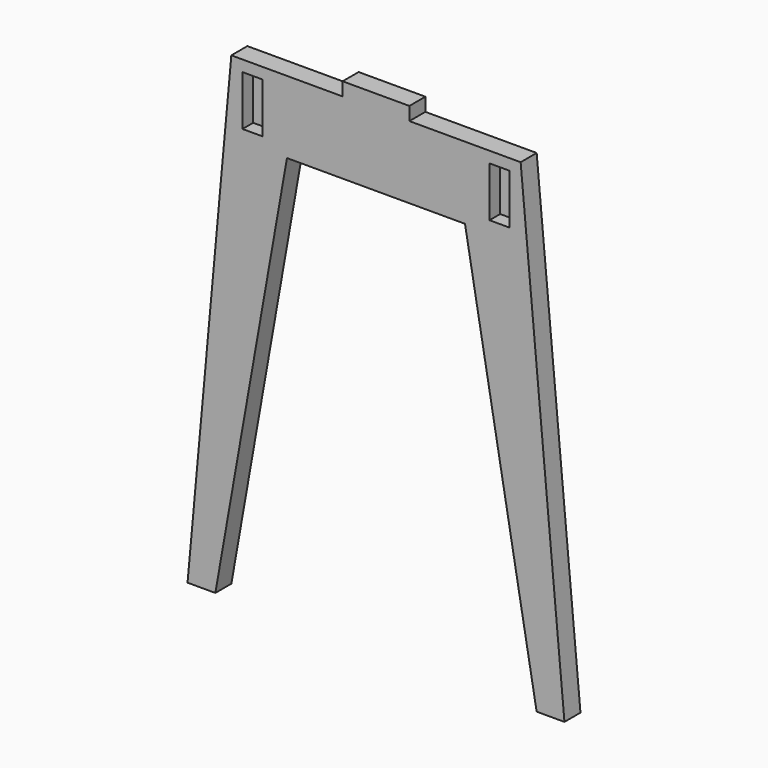
from build123d import *

# Parameters (mm, degrees)
PAD_DEPTH    = 18
SKETCH001_W  = 18
SKETCH001_H  = 45
POCKET_DEPTH = 12


with BuildPart() as part:
    # Sketch → Pad (new body)
    with BuildSketch(Plane.XZ):
        Polygon((-169.359348, 0), (-130, 430), (-30, 430), (-30, 442), (30, 442), (30, 430), (130, 430), (169.359348, 0), (144.359348, 0), (80, 365), (-80, 365), (-144.359348, 0), align=None)
    extrude(amount=PAD_DEPTH)

    # Sketch001 → Pocket (cut)
    with BuildSketch(Plane.XZ.offset(18)):
        with Locations((-111, 397.5)):
            Rectangle(SKETCH001_W, SKETCH001_H)
        with Locations((111, 397.5)):
            Rectangle(SKETCH001_W, SKETCH001_H)
    extrude(amount=-POCKET_DEPTH, mode=Mode.SUBTRACT)


solid = part.part
